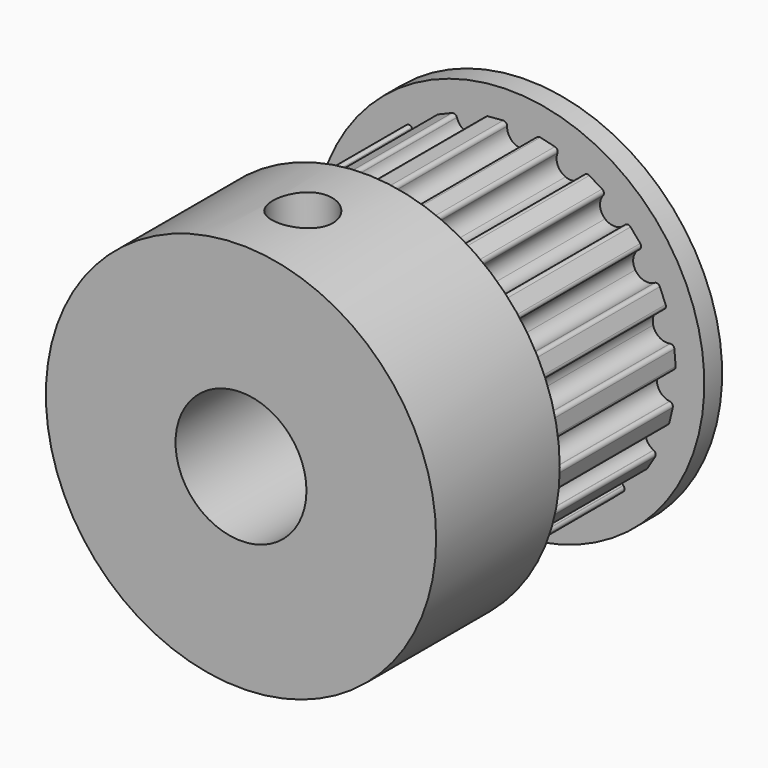
from build123d import *

# Parameters (mm, degrees)
F0_R     = 2.5
F1_DEPTH = 6.9
F0_R_2   = 7.45
F2_DEPTH = 5.9
F3_R     = 7.45
F3_R_2   = 2.5
F4_DEPTH = 0.85
F5_R     = 1.15
F6_DEPTH = 10


with BuildPart() as f1:
    # F0 (on Front) → F1 (new body)
    with BuildSketch(Plane.XZ):
        with BuildLine():
            ThreePointArc((1.0155111033, 6.1225507253), (0.8185107426, 5.7633627955), (0.427864291, 5.6399915636))
            ThreePointArc((0.427864291, 5.6399915636), (0.0602999603, 5.8208826189), (-0.080259854, 6.2056787333))
            Line((-0.080259854, 6.2056787333), (-0.0803901649, 6.2157543541))
            ThreePointArc((-0.0803901649, 6.2157543541), (-0.1261591328, 6.3174944065), (-0.2317565868, 6.353480715))
            Line((-0.2317565868, 6.353480715), (-0.8006133239, 6.3070949427))
            ThreePointArc((-0.8006133239, 6.3070949427), (-0.8989857606, 6.2544765013), (-0.9276675024, 6.1466655818))
            Line((-0.9276675024, 6.1466655818), (-0.9261637709, 6.1367019526))
            ThreePointArc((-0.9261637709, 6.1367019526), (-1.0025270731, 5.734217472), (-1.3359301193, 5.4961680656))
            ThreePointArc((-1.3359301193, 5.4961680656), (-1.7414029814, 5.5546220578), (-1.9939918474, 5.8771495385))
            Line((-1.9939918474, 5.8771495385), (-1.9972293185, 5.886691755))
            ThreePointArc((-1.9972293185, 5.886691755), (-2.0721975988, 5.9693089059), (-2.1837471264, 5.9709025113))
            Line((-2.1837471264, 5.9709025113), (-2.7104280412, 5.7510006212))
            ThreePointArc((-2.7104280412, 5.7510006212), (-2.7877257955, 5.6705587548), (-2.7816883467, 5.5591613317))
            Line((-2.7816883467, 5.5591613317), (-2.7771792822, 5.5501500358))
            ThreePointArc((-2.7771792822, 5.5501500358), (-2.7254305539, 5.1437669897), (-2.9689543815, 4.8143413433))
            ThreePointArc((-2.9689543815, 4.8143413433), (-3.3726452661, 4.7446363883), (-3.7125380257, 4.9733239984))
            Line((-3.7125380257, 4.9733239984), (-3.7185657508, 4.981398752))
            ThreePointArc((-3.7185657508, 4.981398752), (-3.815394926, 5.036805859), (-3.9219772822, 5.003850768))
            Line((-3.9219772822, 5.003850768), (-4.3549271771, 4.6319582892))
            ThreePointArc((-4.3549271771, 4.6319582892), (-4.4035838063, 4.5315672083), (-4.3634181544, 4.4274876374))
            Line((-4.3634181544, 4.4274876374), (-4.3563451357, 4.4203107633))
            ThreePointArc((-4.3563451357, 4.4203107633), (-4.1815499029, 4.0498087557), (-4.3113567029, 3.6612533468))
            ThreePointArc((-4.3113567029, 3.6612533468), (-4.6737495336, 3.4702126513), (-5.0676751154, 3.5826748541))
            Line((-5.0676751154, 3.5826748541), (-5.0759030587, 3.5884917316))
            ThreePointArc((-5.0759030587, 3.5884917316), (-5.1851148144, 3.6112651612), (-5.2762969757, 3.5469872478))
            Line((-5.2762969757, 3.5469872478), (-5.5731356984, 3.0595076072))
            ThreePointArc((-5.5731356984, 3.0595076072), (-5.5883883526, 2.9489942902), (-5.5180261914, 2.8624206051))
            Line((-5.5180261914, 2.8624206051), (-5.5090815748, 2.8577806752))
            ThreePointArc((-5.5090815748, 2.8577806752), (-5.2283500128, 2.559427024), (-5.2317333913, 2.1497763633))
            ThreePointArc((-5.2317333913, 2.1497763633), (-5.5173546328, 1.8561003216), (-5.9267528562, 1.8413285331))
            Line((-5.9267528562, 1.8413285331), (-5.9363756093, 1.8443181381))
            ThreePointArc((-5.9363756093, 1.8443181381), (-6.047279538, 1.8322286681), (-6.114135959, 1.7429199023))
            Line((-6.114135959, 1.7429199023), (-6.2458068672, 1.1875710037))
            ThreePointArc((-6.2458068672, 1.1875710037), (-6.2261625103, 1.0777532641), (-6.1324913784, 1.0171599004))
            Line((-6.1324913784, 1.0171599004), (-6.1225507253, 1.0155111033))
            ThreePointArc((-6.1225507253, 1.0155111033), (-5.7633627955, 0.8185107426), (-5.6399915636, 0.427864291))
            ThreePointArc((-5.6399915636, 0.427864291), (-5.8208826189, 0.0602999603), (-6.2056787333, -0.080259854))
            Line((-6.2056787333, -0.080259854), (-6.2157543541, -0.0803901649))
            ThreePointArc((-6.2157543541, -0.0803901649), (-6.3174944065, -0.1261591328), (-6.353480715, -0.2317565868))
            Line((-6.353480715, -0.2317565868), (-6.3070949427, -0.8006133239))
            ThreePointArc((-6.3070949427, -0.8006133239), (-6.2544765013, -0.8989857606), (-6.1466655818, -0.9276675024))
            Line((-6.1466655818, -0.9276675024), (-6.1367019526, -0.9261637709))
            ThreePointArc((-6.1367019526, -0.9261637709), (-5.734217472, -1.0025270731), (-5.4961680656, -1.3359301193))
            ThreePointArc((-5.4961680656, -1.3359301193), (-5.5546220578, -1.7414029814), (-5.8771495385, -1.9939918474))
            Line((-5.8771495385, -1.9939918474), (-5.886691755, -1.9972293185))
            ThreePointArc((-5.886691755, -1.9972293185), (-5.9693089059, -2.0721975988), (-5.9709025113, -2.1837471264))
            Line((-5.9709025113, -2.1837471264), (-5.7510006212, -2.7104280412))
            ThreePointArc((-5.7510006212, -2.7104280412), (-5.6705587548, -2.7877257955), (-5.5591613317, -2.7816883467))
            Line((-5.5591613317, -2.7816883467), (-5.5501500358, -2.7771792822))
            ThreePointArc((-5.5501500358, -2.7771792822), (-5.1437669897, -2.7254305539), (-4.8143413433, -2.9689543815))
            ThreePointArc((-4.8143413433, -2.9689543815), (-4.7446363883, -3.3726452661), (-4.9733239984, -3.7125380257))
            Line((-4.9733239984, -3.7125380257), (-4.981398752, -3.7185657508))
            ThreePointArc((-4.981398752, -3.7185657508), (-5.036805859, -3.815394926), (-5.003850768, -3.9219772822))
            Line((-5.003850768, -3.9219772822), (-4.6319582892, -4.3549271771))
            ThreePointArc((-4.6319582892, -4.3549271771), (-4.5315672083, -4.4035838063), (-4.4274876374, -4.3634181544))
            Line((-4.4274876374, -4.3634181544), (-4.4203107633, -4.3563451357))
            ThreePointArc((-4.4203107633, -4.3563451357), (-4.0498087557, -4.1815499029), (-3.6612533468, -4.3113567029))
            ThreePointArc((-3.6612533468, -4.3113567029), (-3.4702126513, -4.6737495336), (-3.5826748541, -5.0676751154))
            Line((-3.5826748541, -5.0676751154), (-3.5884917316, -5.0759030587))
            ThreePointArc((-3.5884917316, -5.0759030587), (-3.6112651612, -5.1851148144), (-3.5469872478, -5.2762969757))
            Line((-3.5469872478, -5.2762969757), (-3.0595076072, -5.5731356984))
            ThreePointArc((-3.0595076072, -5.5731356984), (-2.9489942902, -5.5883883526), (-2.8624206051, -5.5180261914))
            Line((-2.8624206051, -5.5180261914), (-2.8577806752, -5.5090815748))
            ThreePointArc((-2.8577806752, -5.5090815748), (-2.559427024, -5.2283500128), (-2.1497763633, -5.2317333913))
            ThreePointArc((-2.1497763633, -5.2317333913), (-1.8561003216, -5.5173546328), (-1.8413285331, -5.9267528562))
            Line((-1.8413285331, -5.9267528562), (-1.8443181381, -5.9363756093))
            ThreePointArc((-1.8443181381, -5.9363756093), (-1.8322286681, -6.047279538), (-1.7429199023, -6.114135959))
            Line((-1.7429199023, -6.114135959), (-1.1875710037, -6.2458068672))
            ThreePointArc((-1.1875710037, -6.2458068672), (-1.0777532641, -6.2261625103), (-1.0171599004, -6.1324913784))
            Line((-1.0171599004, -6.1324913784), (-1.0155111033, -6.1225507253))
            ThreePointArc((-1.0155111033, -6.1225507253), (-0.8185107426, -5.7633627955), (-0.427864291, -5.6399915636))
            ThreePointArc((-0.427864291, -5.6399915636), (-0.0602999603, -5.8208826189), (0.080259854, -6.2056787333))
            Line((0.080259854, -6.2056787333), (0.0803901649, -6.2157543541))
            ThreePointArc((0.0803901649, -6.2157543541), (0.1261591328, -6.3174944065), (0.2317565868, -6.353480715))
            Line((0.2317565868, -6.353480715), (0.8006133239, -6.3070949427))
            ThreePointArc((0.8006133239, -6.3070949427), (0.8989857606, -6.2544765013), (0.9276675024, -6.1466655818))
            Line((0.9276675024, -6.1466655818), (0.9261637709, -6.1367019526))
            ThreePointArc((0.9261637709, -6.1367019526), (1.0025270731, -5.734217472), (1.3359301193, -5.4961680656))
            ThreePointArc((1.3359301193, -5.4961680656), (1.7414029814, -5.5546220578), (1.9939918474, -5.8771495385))
            Line((1.9939918474, -5.8771495385), (1.9972293185, -5.886691755))
            ThreePointArc((1.9972293185, -5.886691755), (2.0721975988, -5.9693089059), (2.1837471264, -5.9709025113))
            Line((2.1837471264, -5.9709025113), (2.7104280412, -5.7510006212))
            ThreePointArc((2.7104280412, -5.7510006212), (2.7877257955, -5.6705587548), (2.7816883467, -5.5591613317))
            Line((2.7816883467, -5.5591613317), (2.7771792822, -5.5501500358))
            ThreePointArc((2.7771792822, -5.5501500358), (2.7254305539, -5.1437669897), (2.9689543815, -4.8143413433))
            ThreePointArc((2.9689543815, -4.8143413433), (3.3726452661, -4.7446363883), (3.7125380257, -4.9733239984))
            Line((3.7125380257, -4.9733239984), (3.7185657508, -4.981398752))
            ThreePointArc((3.7185657508, -4.981398752), (3.815394926, -5.036805859), (3.9219772822, -5.003850768))
            Line((3.9219772822, -5.003850768), (4.3549271771, -4.6319582892))
            ThreePointArc((4.3549271771, -4.6319582892), (4.4035838063, -4.5315672083), (4.3634181544, -4.4274876374))
            Line((4.3634181544, -4.4274876374), (4.3563451357, -4.4203107633))
            ThreePointArc((4.3563451357, -4.4203107633), (4.1815499029, -4.0498087557), (4.3113567029, -3.6612533468))
            ThreePointArc((4.3113567029, -3.6612533468), (4.6737495336, -3.4702126513), (5.0676751154, -3.5826748541))
            Line((5.0676751154, -3.5826748541), (5.0759030587, -3.5884917316))
            ThreePointArc((5.0759030587, -3.5884917316), (5.1851148144, -3.6112651612), (5.2762969757, -3.5469872478))
            Line((5.2762969757, -3.5469872478), (5.5731356984, -3.0595076072))
            ThreePointArc((5.5731356984, -3.0595076072), (5.5883883526, -2.9489942902), (5.5180261914, -2.8624206051))
            Line((5.5180261914, -2.8624206051), (5.5090815748, -2.8577806752))
            ThreePointArc((5.5090815748, -2.8577806752), (5.2283500128, -2.559427024), (5.2317333913, -2.1497763633))
            ThreePointArc((5.2317333913, -2.1497763633), (5.5173546328, -1.8561003216), (5.9267528562, -1.8413285331))
            Line((5.9267528562, -1.8413285331), (5.9363756093, -1.8443181381))
            ThreePointArc((5.9363756093, -1.8443181381), (6.047279538, -1.8322286681), (6.114135959, -1.7429199023))
            Line((6.114135959, -1.7429199023), (6.2458068672, -1.1875710037))
            ThreePointArc((6.2458068672, -1.1875710037), (6.2261625103, -1.0777532641), (6.1324913784, -1.0171599004))
            Line((6.1324913784, -1.0171599004), (6.1225507253, -1.0155111033))
            ThreePointArc((6.1225507253, -1.0155111033), (5.7633627955, -0.8185107426), (5.6399915636, -0.427864291))
            ThreePointArc((5.6399915636, -0.427864291), (5.8208826189, -0.0602999603), (6.2056787333, 0.080259854))
            Line((6.2056787333, 0.080259854), (6.2157543541, 0.0803901649))
            ThreePointArc((6.2157543541, 0.0803901649), (6.3174944065, 0.1261591328), (6.353480715, 0.2317565868))
            Line((6.353480715, 0.2317565868), (6.3070949427, 0.8006133239))
            ThreePointArc((6.3070949427, 0.8006133239), (6.2544765013, 0.8989857606), (6.1466655818, 0.9276675024))
            Line((6.1466655818, 0.9276675024), (6.1367019526, 0.9261637709))
            ThreePointArc((6.1367019526, 0.9261637709), (5.734217472, 1.0025270731), (5.4961680656, 1.3359301193))
            ThreePointArc((5.4961680656, 1.3359301193), (5.5546220578, 1.7414029814), (5.8771495385, 1.9939918474))
            Line((5.8771495385, 1.9939918474), (5.886691755, 1.9972293185))
            ThreePointArc((5.886691755, 1.9972293185), (5.9693089059, 2.0721975988), (5.9709025113, 2.1837471264))
            Line((5.9709025113, 2.1837471264), (5.7510006212, 2.7104280412))
            ThreePointArc((5.7510006212, 2.7104280412), (5.6705587548, 2.7877257955), (5.5591613317, 2.7816883467))
            Line((5.5591613317, 2.7816883467), (5.5501500358, 2.7771792822))
            ThreePointArc((5.5501500358, 2.7771792822), (5.1437669897, 2.7254305539), (4.8143413433, 2.9689543815))
            ThreePointArc((4.8143413433, 2.9689543815), (4.7446363883, 3.3726452661), (4.9733239984, 3.7125380257))
            Line((4.9733239984, 3.7125380257), (4.981398752, 3.7185657508))
            ThreePointArc((4.981398752, 3.7185657508), (5.036805859, 3.815394926), (5.003850768, 3.9219772822))
            Line((5.003850768, 3.9219772822), (4.6319582892, 4.3549271771))
            ThreePointArc((4.6319582892, 4.3549271771), (4.5315672083, 4.4035838063), (4.4274876374, 4.3634181544))
            Line((4.4274876374, 4.3634181544), (4.4203107633, 4.3563451357))
            ThreePointArc((4.4203107633, 4.3563451357), (4.0498087557, 4.1815499029), (3.6612533468, 4.3113567029))
            ThreePointArc((3.6612533468, 4.3113567029), (3.4702126513, 4.6737495336), (3.5826748541, 5.0676751154))
            Line((3.5826748541, 5.0676751154), (3.5884917316, 5.0759030587))
            ThreePointArc((3.5884917316, 5.0759030587), (3.6112651612, 5.1851148144), (3.5469872478, 5.2762969757))
            Line((3.5469872478, 5.2762969757), (3.0595076072, 5.5731356984))
            ThreePointArc((3.0595076072, 5.5731356984), (2.9489942902, 5.5883883526), (2.8624206051, 5.5180261914))
            Line((2.8624206051, 5.5180261914), (2.8577806752, 5.5090815748))
            ThreePointArc((2.8577806752, 5.5090815748), (2.559427024, 5.2283500128), (2.1497763633, 5.2317333913))
            ThreePointArc((2.1497763633, 5.2317333913), (1.8561003216, 5.5173546328), (1.8413285331, 5.9267528562))
            Line((1.8413285331, 5.9267528562), (1.8443181381, 5.9363756093))
            ThreePointArc((1.8443181381, 5.9363756093), (1.8322286681, 6.047279538), (1.7429199023, 6.114135959))
            Line((1.7429199023, 6.114135959), (1.1875710037, 6.2458068672))
            ThreePointArc((1.1875710037, 6.2458068672), (1.0777532641, 6.2261625103), (1.0171599004, 6.1324913784))
            Line((1.0171599004, 6.1324913784), (1.0155111033, 6.1225507253))
        make_face()
        Circle(F0_R, mode=Mode.SUBTRACT)
    extrude(amount=-F1_DEPTH)

    # F0 (on Front) → F2 (join)
    with BuildSketch(Plane.XZ):
        Circle(F0_R_2)
        with BuildLine():
            ThreePointArc((-0.080259854, 6.2056787333), (0.0602999603, 5.8208826189), (0.427864291, 5.6399915636))
            ThreePointArc((0.427864291, 5.6399915636), (0.8185107426, 5.7633627955), (1.0155111033, 6.1225507253))
            Line((1.0155111033, 6.1225507253), (1.0171599004, 6.1324913784))
            ThreePointArc((1.0171599004, 6.1324913784), (1.0777532641, 6.2261625103), (1.1875710037, 6.2458068672))
            Line((1.1875710037, 6.2458068672), (1.7429199023, 6.114135959))
            ThreePointArc((1.7429199023, 6.114135959), (1.8322286681, 6.047279538), (1.8443181381, 5.9363756093))
            Line((1.8443181381, 5.9363756093), (1.8413285331, 5.9267528562))
            ThreePointArc((1.8413285331, 5.9267528562), (1.8561003216, 5.5173546328), (2.1497763633, 5.2317333913))
            ThreePointArc((2.1497763633, 5.2317333913), (2.559427024, 5.2283500128), (2.8577806752, 5.5090815748))
            Line((2.8577806752, 5.5090815748), (2.8624206051, 5.5180261914))
            ThreePointArc((2.8624206051, 5.5180261914), (2.9489942902, 5.5883883526), (3.0595076072, 5.5731356984))
            Line((3.0595076072, 5.5731356984), (3.5469872478, 5.2762969757))
            ThreePointArc((3.5469872478, 5.2762969757), (3.6112651612, 5.1851148144), (3.5884917316, 5.0759030587))
            Line((3.5884917316, 5.0759030587), (3.5826748541, 5.0676751154))
            ThreePointArc((3.5826748541, 5.0676751154), (3.4702126513, 4.6737495336), (3.6612533468, 4.3113567029))
            ThreePointArc((3.6612533468, 4.3113567029), (4.0498087557, 4.1815499029), (4.4203107633, 4.3563451357))
            Line((4.4203107633, 4.3563451357), (4.4274876374, 4.3634181544))
            ThreePointArc((4.4274876374, 4.3634181544), (4.5315672083, 4.4035838063), (4.6319582892, 4.3549271771))
            Line((4.6319582892, 4.3549271771), (5.003850768, 3.9219772822))
            ThreePointArc((5.003850768, 3.9219772822), (5.036805859, 3.815394926), (4.981398752, 3.7185657508))
            Line((4.981398752, 3.7185657508), (4.9733239984, 3.7125380257))
            ThreePointArc((4.9733239984, 3.7125380257), (4.7446363883, 3.3726452661), (4.8143413433, 2.9689543815))
            ThreePointArc((4.8143413433, 2.9689543815), (5.1437669897, 2.7254305539), (5.5501500358, 2.7771792822))
            Line((5.5501500358, 2.7771792822), (5.5591613317, 2.7816883467))
            ThreePointArc((5.5591613317, 2.7816883467), (5.6705587548, 2.7877257955), (5.7510006212, 2.7104280412))
            Line((5.7510006212, 2.7104280412), (5.9709025113, 2.1837471264))
            ThreePointArc((5.9709025113, 2.1837471264), (5.9693089059, 2.0721975988), (5.886691755, 1.9972293185))
            Line((5.886691755, 1.9972293185), (5.8771495385, 1.9939918474))
            ThreePointArc((5.8771495385, 1.9939918474), (5.5546220578, 1.7414029814), (5.4961680656, 1.3359301193))
            ThreePointArc((5.4961680656, 1.3359301193), (5.734217472, 1.0025270731), (6.1367019526, 0.9261637709))
            Line((6.1367019526, 0.9261637709), (6.1466655818, 0.9276675024))
            ThreePointArc((6.1466655818, 0.9276675024), (6.2544765013, 0.8989857606), (6.3070949427, 0.8006133239))
            Line((6.3070949427, 0.8006133239), (6.353480715, 0.2317565868))
            ThreePointArc((6.353480715, 0.2317565868), (6.3174944065, 0.1261591328), (6.2157543541, 0.0803901649))
            Line((6.2157543541, 0.0803901649), (6.2056787333, 0.080259854))
            ThreePointArc((6.2056787333, 0.080259854), (5.8208826189, -0.0602999603), (5.6399915636, -0.427864291))
            ThreePointArc((5.6399915636, -0.427864291), (5.7633627955, -0.8185107426), (6.1225507253, -1.0155111033))
            Line((6.1225507253, -1.0155111033), (6.1324913784, -1.0171599004))
            ThreePointArc((6.1324913784, -1.0171599004), (6.2261625103, -1.0777532641), (6.2458068672, -1.1875710037))
            Line((6.2458068672, -1.1875710037), (6.114135959, -1.7429199023))
            ThreePointArc((6.114135959, -1.7429199023), (6.047279538, -1.8322286681), (5.9363756093, -1.8443181381))
            Line((5.9363756093, -1.8443181381), (5.9267528562, -1.8413285331))
            ThreePointArc((5.9267528562, -1.8413285331), (5.5173546328, -1.8561003216), (5.2317333913, -2.1497763633))
            ThreePointArc((5.2317333913, -2.1497763633), (5.2283500128, -2.559427024), (5.5090815748, -2.8577806752))
            Line((5.5090815748, -2.8577806752), (5.5180261914, -2.8624206051))
            ThreePointArc((5.5180261914, -2.8624206051), (5.5883883526, -2.9489942902), (5.5731356984, -3.0595076072))
            Line((5.5731356984, -3.0595076072), (5.2762969757, -3.5469872478))
            ThreePointArc((5.2762969757, -3.5469872478), (5.1851148144, -3.6112651612), (5.0759030587, -3.5884917316))
            Line((5.0759030587, -3.5884917316), (5.0676751154, -3.5826748541))
            ThreePointArc((5.0676751154, -3.5826748541), (4.6737495336, -3.4702126513), (4.3113567029, -3.6612533468))
            ThreePointArc((4.3113567029, -3.6612533468), (4.1815499029, -4.0498087557), (4.3563451357, -4.4203107633))
            Line((4.3563451357, -4.4203107633), (4.3634181544, -4.4274876374))
            ThreePointArc((4.3634181544, -4.4274876374), (4.4035838063, -4.5315672083), (4.3549271771, -4.6319582892))
            Line((4.3549271771, -4.6319582892), (3.9219772822, -5.003850768))
            ThreePointArc((3.9219772822, -5.003850768), (3.815394926, -5.036805859), (3.7185657508, -4.981398752))
            Line((3.7185657508, -4.981398752), (3.7125380257, -4.9733239984))
            ThreePointArc((3.7125380257, -4.9733239984), (3.3726452661, -4.7446363883), (2.9689543815, -4.8143413433))
            ThreePointArc((2.9689543815, -4.8143413433), (2.7254305539, -5.1437669897), (2.7771792822, -5.5501500358))
            Line((2.7771792822, -5.5501500358), (2.7816883467, -5.5591613317))
            ThreePointArc((2.7816883467, -5.5591613317), (2.7877257955, -5.6705587548), (2.7104280412, -5.7510006212))
            Line((2.7104280412, -5.7510006212), (2.1837471264, -5.9709025113))
            ThreePointArc((2.1837471264, -5.9709025113), (2.0721975988, -5.9693089059), (1.9972293185, -5.886691755))
            Line((1.9972293185, -5.886691755), (1.9939918474, -5.8771495385))
            ThreePointArc((1.9939918474, -5.8771495385), (1.7414029814, -5.5546220578), (1.3359301193, -5.4961680656))
            ThreePointArc((1.3359301193, -5.4961680656), (1.0025270731, -5.734217472), (0.9261637709, -6.1367019526))
            Line((0.9261637709, -6.1367019526), (0.9276675024, -6.1466655818))
            ThreePointArc((0.9276675024, -6.1466655818), (0.8989857606, -6.2544765013), (0.8006133239, -6.3070949427))
            Line((0.8006133239, -6.3070949427), (0.2317565868, -6.353480715))
            ThreePointArc((0.2317565868, -6.353480715), (0.1261591328, -6.3174944065), (0.0803901649, -6.2157543541))
            Line((0.0803901649, -6.2157543541), (0.080259854, -6.2056787333))
            ThreePointArc((0.080259854, -6.2056787333), (-0.0602999603, -5.8208826189), (-0.427864291, -5.6399915636))
            ThreePointArc((-0.427864291, -5.6399915636), (-0.8185107426, -5.7633627955), (-1.0155111033, -6.1225507253))
            Line((-1.0155111033, -6.1225507253), (-1.0171599004, -6.1324913784))
            ThreePointArc((-1.0171599004, -6.1324913784), (-1.0777532641, -6.2261625103), (-1.1875710037, -6.2458068672))
            Line((-1.1875710037, -6.2458068672), (-1.7429199023, -6.114135959))
            ThreePointArc((-1.7429199023, -6.114135959), (-1.8322286681, -6.047279538), (-1.8443181381, -5.9363756093))
            Line((-1.8443181381, -5.9363756093), (-1.8413285331, -5.9267528562))
            ThreePointArc((-1.8413285331, -5.9267528562), (-1.8561003216, -5.5173546328), (-2.1497763633, -5.2317333913))
            ThreePointArc((-2.1497763633, -5.2317333913), (-2.559427024, -5.2283500128), (-2.8577806752, -5.5090815748))
            Line((-2.8577806752, -5.5090815748), (-2.8624206051, -5.5180261914))
            ThreePointArc((-2.8624206051, -5.5180261914), (-2.9489942902, -5.5883883526), (-3.0595076072, -5.5731356984))
            Line((-3.0595076072, -5.5731356984), (-3.5469872478, -5.2762969757))
            ThreePointArc((-3.5469872478, -5.2762969757), (-3.6112651612, -5.1851148144), (-3.5884917316, -5.0759030587))
            Line((-3.5884917316, -5.0759030587), (-3.5826748541, -5.0676751154))
            ThreePointArc((-3.5826748541, -5.0676751154), (-3.4702126513, -4.6737495336), (-3.6612533468, -4.3113567029))
            ThreePointArc((-3.6612533468, -4.3113567029), (-4.0498087557, -4.1815499029), (-4.4203107633, -4.3563451357))
            Line((-4.4203107633, -4.3563451357), (-4.4274876374, -4.3634181544))
            ThreePointArc((-4.4274876374, -4.3634181544), (-4.5315672083, -4.4035838063), (-4.6319582892, -4.3549271771))
            Line((-4.6319582892, -4.3549271771), (-5.003850768, -3.9219772822))
            ThreePointArc((-5.003850768, -3.9219772822), (-5.036805859, -3.815394926), (-4.981398752, -3.7185657508))
            Line((-4.981398752, -3.7185657508), (-4.9733239984, -3.7125380257))
            ThreePointArc((-4.9733239984, -3.7125380257), (-4.7446363883, -3.3726452661), (-4.8143413433, -2.9689543815))
            ThreePointArc((-4.8143413433, -2.9689543815), (-5.1437669897, -2.7254305539), (-5.5501500358, -2.7771792822))
            Line((-5.5501500358, -2.7771792822), (-5.5591613317, -2.7816883467))
            ThreePointArc((-5.5591613317, -2.7816883467), (-5.6705587548, -2.7877257955), (-5.7510006212, -2.7104280412))
            Line((-5.7510006212, -2.7104280412), (-5.9709025113, -2.1837471264))
            ThreePointArc((-5.9709025113, -2.1837471264), (-5.9693089059, -2.0721975988), (-5.886691755, -1.9972293185))
            Line((-5.886691755, -1.9972293185), (-5.8771495385, -1.9939918474))
            ThreePointArc((-5.8771495385, -1.9939918474), (-5.5546220578, -1.7414029814), (-5.4961680656, -1.3359301193))
            ThreePointArc((-5.4961680656, -1.3359301193), (-5.734217472, -1.0025270731), (-6.1367019526, -0.9261637709))
            Line((-6.1367019526, -0.9261637709), (-6.1466655818, -0.9276675024))
            ThreePointArc((-6.1466655818, -0.9276675024), (-6.2544765013, -0.8989857606), (-6.3070949427, -0.8006133239))
            Line((-6.3070949427, -0.8006133239), (-6.353480715, -0.2317565868))
            ThreePointArc((-6.353480715, -0.2317565868), (-6.3174944065, -0.1261591328), (-6.2157543541, -0.0803901649))
            Line((-6.2157543541, -0.0803901649), (-6.2056787333, -0.080259854))
            ThreePointArc((-6.2056787333, -0.080259854), (-5.8208826189, 0.0602999603), (-5.6399915636, 0.427864291))
            ThreePointArc((-5.6399915636, 0.427864291), (-5.7633627955, 0.8185107426), (-6.1225507253, 1.0155111033))
            Line((-6.1225507253, 1.0155111033), (-6.1324913784, 1.0171599004))
            ThreePointArc((-6.1324913784, 1.0171599004), (-6.2261625103, 1.0777532641), (-6.2458068672, 1.1875710037))
            Line((-6.2458068672, 1.1875710037), (-6.114135959, 1.7429199023))
            ThreePointArc((-6.114135959, 1.7429199023), (-6.047279538, 1.8322286681), (-5.9363756093, 1.8443181381))
            Line((-5.9363756093, 1.8443181381), (-5.9267528562, 1.8413285331))
            ThreePointArc((-5.9267528562, 1.8413285331), (-5.5173546328, 1.8561003216), (-5.2317333913, 2.1497763633))
            ThreePointArc((-5.2317333913, 2.1497763633), (-5.2283500128, 2.559427024), (-5.5090815748, 2.8577806752))
            Line((-5.5090815748, 2.8577806752), (-5.5180261914, 2.8624206051))
            ThreePointArc((-5.5180261914, 2.8624206051), (-5.5883883526, 2.9489942902), (-5.5731356984, 3.0595076072))
            Line((-5.5731356984, 3.0595076072), (-5.2762969757, 3.5469872478))
            ThreePointArc((-5.2762969757, 3.5469872478), (-5.1851148144, 3.6112651612), (-5.0759030587, 3.5884917316))
            Line((-5.0759030587, 3.5884917316), (-5.0676751154, 3.5826748541))
            ThreePointArc((-5.0676751154, 3.5826748541), (-4.6737495336, 3.4702126513), (-4.3113567029, 3.6612533468))
            ThreePointArc((-4.3113567029, 3.6612533468), (-4.1815499029, 4.0498087557), (-4.3563451357, 4.4203107633))
            Line((-4.3563451357, 4.4203107633), (-4.3634181544, 4.4274876374))
            ThreePointArc((-4.3634181544, 4.4274876374), (-4.4035838063, 4.5315672083), (-4.3549271771, 4.6319582892))
            Line((-4.3549271771, 4.6319582892), (-3.9219772822, 5.003850768))
            ThreePointArc((-3.9219772822, 5.003850768), (-3.815394926, 5.036805859), (-3.7185657508, 4.981398752))
            Line((-3.7185657508, 4.981398752), (-3.7125380257, 4.9733239984))
            ThreePointArc((-3.7125380257, 4.9733239984), (-3.3726452661, 4.7446363883), (-2.9689543815, 4.8143413433))
            ThreePointArc((-2.9689543815, 4.8143413433), (-2.7254305539, 5.1437669897), (-2.7771792822, 5.5501500358))
            Line((-2.7771792822, 5.5501500358), (-2.7816883467, 5.5591613317))
            ThreePointArc((-2.7816883467, 5.5591613317), (-2.7877257955, 5.6705587548), (-2.7104280412, 5.7510006212))
            Line((-2.7104280412, 5.7510006212), (-2.1837471264, 5.9709025113))
            ThreePointArc((-2.1837471264, 5.9709025113), (-2.0721975988, 5.9693089059), (-1.9972293185, 5.886691755))
            Line((-1.9972293185, 5.886691755), (-1.9939918474, 5.8771495385))
            ThreePointArc((-1.9939918474, 5.8771495385), (-1.7414029814, 5.5546220578), (-1.3359301193, 5.4961680656))
            ThreePointArc((-1.3359301193, 5.4961680656), (-1.0025270731, 5.734217472), (-0.9261637709, 6.1367019526))
            Line((-0.9261637709, 6.1367019526), (-0.9276675024, 6.1466655818))
            ThreePointArc((-0.9276675024, 6.1466655818), (-0.8989857606, 6.2544765013), (-0.8006133239, 6.3070949427))
            Line((-0.8006133239, 6.3070949427), (-0.2317565868, 6.353480715))
            ThreePointArc((-0.2317565868, 6.353480715), (-0.1261591328, 6.3174944065), (-0.0803901649, 6.2157543541))
            Line((-0.0803901649, 6.2157543541), (-0.080259854, 6.2056787333))
        make_face(mode=Mode.SUBTRACT)
        with BuildLine():
            ThreePointArc((1.0155111033, 6.1225507253), (0.8185107426, 5.7633627955), (0.427864291, 5.6399915636))
            ThreePointArc((0.427864291, 5.6399915636), (0.0602999603, 5.8208826189), (-0.080259854, 6.2056787333))
            Line((-0.080259854, 6.2056787333), (-0.0803901649, 6.2157543541))
            ThreePointArc((-0.0803901649, 6.2157543541), (-0.1261591328, 6.3174944065), (-0.2317565868, 6.353480715))
            Line((-0.2317565868, 6.353480715), (-0.8006133239, 6.3070949427))
            ThreePointArc((-0.8006133239, 6.3070949427), (-0.8989857606, 6.2544765013), (-0.9276675024, 6.1466655818))
            Line((-0.9276675024, 6.1466655818), (-0.9261637709, 6.1367019526))
            ThreePointArc((-0.9261637709, 6.1367019526), (-1.0025270731, 5.734217472), (-1.3359301193, 5.4961680656))
            ThreePointArc((-1.3359301193, 5.4961680656), (-1.7414029814, 5.5546220578), (-1.9939918474, 5.8771495385))
            Line((-1.9939918474, 5.8771495385), (-1.9972293185, 5.886691755))
            ThreePointArc((-1.9972293185, 5.886691755), (-2.0721975988, 5.9693089059), (-2.1837471264, 5.9709025113))
            Line((-2.1837471264, 5.9709025113), (-2.7104280412, 5.7510006212))
            ThreePointArc((-2.7104280412, 5.7510006212), (-2.7877257955, 5.6705587548), (-2.7816883467, 5.5591613317))
            Line((-2.7816883467, 5.5591613317), (-2.7771792822, 5.5501500358))
            ThreePointArc((-2.7771792822, 5.5501500358), (-2.7254305539, 5.1437669897), (-2.9689543815, 4.8143413433))
            ThreePointArc((-2.9689543815, 4.8143413433), (-3.3726452661, 4.7446363883), (-3.7125380257, 4.9733239984))
            Line((-3.7125380257, 4.9733239984), (-3.7185657508, 4.981398752))
            ThreePointArc((-3.7185657508, 4.981398752), (-3.815394926, 5.036805859), (-3.9219772822, 5.003850768))
            Line((-3.9219772822, 5.003850768), (-4.3549271771, 4.6319582892))
            ThreePointArc((-4.3549271771, 4.6319582892), (-4.4035838063, 4.5315672083), (-4.3634181544, 4.4274876374))
            Line((-4.3634181544, 4.4274876374), (-4.3563451357, 4.4203107633))
            ThreePointArc((-4.3563451357, 4.4203107633), (-4.1815499029, 4.0498087557), (-4.3113567029, 3.6612533468))
            ThreePointArc((-4.3113567029, 3.6612533468), (-4.6737495336, 3.4702126513), (-5.0676751154, 3.5826748541))
            Line((-5.0676751154, 3.5826748541), (-5.0759030587, 3.5884917316))
            ThreePointArc((-5.0759030587, 3.5884917316), (-5.1851148144, 3.6112651612), (-5.2762969757, 3.5469872478))
            Line((-5.2762969757, 3.5469872478), (-5.5731356984, 3.0595076072))
            ThreePointArc((-5.5731356984, 3.0595076072), (-5.5883883526, 2.9489942902), (-5.5180261914, 2.8624206051))
            Line((-5.5180261914, 2.8624206051), (-5.5090815748, 2.8577806752))
            ThreePointArc((-5.5090815748, 2.8577806752), (-5.2283500128, 2.559427024), (-5.2317333913, 2.1497763633))
            ThreePointArc((-5.2317333913, 2.1497763633), (-5.5173546328, 1.8561003216), (-5.9267528562, 1.8413285331))
            Line((-5.9267528562, 1.8413285331), (-5.9363756093, 1.8443181381))
            ThreePointArc((-5.9363756093, 1.8443181381), (-6.047279538, 1.8322286681), (-6.114135959, 1.7429199023))
            Line((-6.114135959, 1.7429199023), (-6.2458068672, 1.1875710037))
            ThreePointArc((-6.2458068672, 1.1875710037), (-6.2261625103, 1.0777532641), (-6.1324913784, 1.0171599004))
            Line((-6.1324913784, 1.0171599004), (-6.1225507253, 1.0155111033))
            ThreePointArc((-6.1225507253, 1.0155111033), (-5.7633627955, 0.8185107426), (-5.6399915636, 0.427864291))
            ThreePointArc((-5.6399915636, 0.427864291), (-5.8208826189, 0.0602999603), (-6.2056787333, -0.080259854))
            Line((-6.2056787333, -0.080259854), (-6.2157543541, -0.0803901649))
            ThreePointArc((-6.2157543541, -0.0803901649), (-6.3174944065, -0.1261591328), (-6.353480715, -0.2317565868))
            Line((-6.353480715, -0.2317565868), (-6.3070949427, -0.8006133239))
            ThreePointArc((-6.3070949427, -0.8006133239), (-6.2544765013, -0.8989857606), (-6.1466655818, -0.9276675024))
            Line((-6.1466655818, -0.9276675024), (-6.1367019526, -0.9261637709))
            ThreePointArc((-6.1367019526, -0.9261637709), (-5.734217472, -1.0025270731), (-5.4961680656, -1.3359301193))
            ThreePointArc((-5.4961680656, -1.3359301193), (-5.5546220578, -1.7414029814), (-5.8771495385, -1.9939918474))
            Line((-5.8771495385, -1.9939918474), (-5.886691755, -1.9972293185))
            ThreePointArc((-5.886691755, -1.9972293185), (-5.9693089059, -2.0721975988), (-5.9709025113, -2.1837471264))
            Line((-5.9709025113, -2.1837471264), (-5.7510006212, -2.7104280412))
            ThreePointArc((-5.7510006212, -2.7104280412), (-5.6705587548, -2.7877257955), (-5.5591613317, -2.7816883467))
            Line((-5.5591613317, -2.7816883467), (-5.5501500358, -2.7771792822))
            ThreePointArc((-5.5501500358, -2.7771792822), (-5.1437669897, -2.7254305539), (-4.8143413433, -2.9689543815))
            ThreePointArc((-4.8143413433, -2.9689543815), (-4.7446363883, -3.3726452661), (-4.9733239984, -3.7125380257))
            Line((-4.9733239984, -3.7125380257), (-4.981398752, -3.7185657508))
            ThreePointArc((-4.981398752, -3.7185657508), (-5.036805859, -3.815394926), (-5.003850768, -3.9219772822))
            Line((-5.003850768, -3.9219772822), (-4.6319582892, -4.3549271771))
            ThreePointArc((-4.6319582892, -4.3549271771), (-4.5315672083, -4.4035838063), (-4.4274876374, -4.3634181544))
            Line((-4.4274876374, -4.3634181544), (-4.4203107633, -4.3563451357))
            ThreePointArc((-4.4203107633, -4.3563451357), (-4.0498087557, -4.1815499029), (-3.6612533468, -4.3113567029))
            ThreePointArc((-3.6612533468, -4.3113567029), (-3.4702126513, -4.6737495336), (-3.5826748541, -5.0676751154))
            Line((-3.5826748541, -5.0676751154), (-3.5884917316, -5.0759030587))
            ThreePointArc((-3.5884917316, -5.0759030587), (-3.6112651612, -5.1851148144), (-3.5469872478, -5.2762969757))
            Line((-3.5469872478, -5.2762969757), (-3.0595076072, -5.5731356984))
            ThreePointArc((-3.0595076072, -5.5731356984), (-2.9489942902, -5.5883883526), (-2.8624206051, -5.5180261914))
            Line((-2.8624206051, -5.5180261914), (-2.8577806752, -5.5090815748))
            ThreePointArc((-2.8577806752, -5.5090815748), (-2.559427024, -5.2283500128), (-2.1497763633, -5.2317333913))
            ThreePointArc((-2.1497763633, -5.2317333913), (-1.8561003216, -5.5173546328), (-1.8413285331, -5.9267528562))
            Line((-1.8413285331, -5.9267528562), (-1.8443181381, -5.9363756093))
            ThreePointArc((-1.8443181381, -5.9363756093), (-1.8322286681, -6.047279538), (-1.7429199023, -6.114135959))
            Line((-1.7429199023, -6.114135959), (-1.1875710037, -6.2458068672))
            ThreePointArc((-1.1875710037, -6.2458068672), (-1.0777532641, -6.2261625103), (-1.0171599004, -6.1324913784))
            Line((-1.0171599004, -6.1324913784), (-1.0155111033, -6.1225507253))
            ThreePointArc((-1.0155111033, -6.1225507253), (-0.8185107426, -5.7633627955), (-0.427864291, -5.6399915636))
            ThreePointArc((-0.427864291, -5.6399915636), (-0.0602999603, -5.8208826189), (0.080259854, -6.2056787333))
            Line((0.080259854, -6.2056787333), (0.0803901649, -6.2157543541))
            ThreePointArc((0.0803901649, -6.2157543541), (0.1261591328, -6.3174944065), (0.2317565868, -6.353480715))
            Line((0.2317565868, -6.353480715), (0.8006133239, -6.3070949427))
            ThreePointArc((0.8006133239, -6.3070949427), (0.8989857606, -6.2544765013), (0.9276675024, -6.1466655818))
            Line((0.9276675024, -6.1466655818), (0.9261637709, -6.1367019526))
            ThreePointArc((0.9261637709, -6.1367019526), (1.0025270731, -5.734217472), (1.3359301193, -5.4961680656))
            ThreePointArc((1.3359301193, -5.4961680656), (1.7414029814, -5.5546220578), (1.9939918474, -5.8771495385))
            Line((1.9939918474, -5.8771495385), (1.9972293185, -5.886691755))
            ThreePointArc((1.9972293185, -5.886691755), (2.0721975988, -5.9693089059), (2.1837471264, -5.9709025113))
            Line((2.1837471264, -5.9709025113), (2.7104280412, -5.7510006212))
            ThreePointArc((2.7104280412, -5.7510006212), (2.7877257955, -5.6705587548), (2.7816883467, -5.5591613317))
            Line((2.7816883467, -5.5591613317), (2.7771792822, -5.5501500358))
            ThreePointArc((2.7771792822, -5.5501500358), (2.7254305539, -5.1437669897), (2.9689543815, -4.8143413433))
            ThreePointArc((2.9689543815, -4.8143413433), (3.3726452661, -4.7446363883), (3.7125380257, -4.9733239984))
            Line((3.7125380257, -4.9733239984), (3.7185657508, -4.981398752))
            ThreePointArc((3.7185657508, -4.981398752), (3.815394926, -5.036805859), (3.9219772822, -5.003850768))
            Line((3.9219772822, -5.003850768), (4.3549271771, -4.6319582892))
            ThreePointArc((4.3549271771, -4.6319582892), (4.4035838063, -4.5315672083), (4.3634181544, -4.4274876374))
            Line((4.3634181544, -4.4274876374), (4.3563451357, -4.4203107633))
            ThreePointArc((4.3563451357, -4.4203107633), (4.1815499029, -4.0498087557), (4.3113567029, -3.6612533468))
            ThreePointArc((4.3113567029, -3.6612533468), (4.6737495336, -3.4702126513), (5.0676751154, -3.5826748541))
            Line((5.0676751154, -3.5826748541), (5.0759030587, -3.5884917316))
            ThreePointArc((5.0759030587, -3.5884917316), (5.1851148144, -3.6112651612), (5.2762969757, -3.5469872478))
            Line((5.2762969757, -3.5469872478), (5.5731356984, -3.0595076072))
            ThreePointArc((5.5731356984, -3.0595076072), (5.5883883526, -2.9489942902), (5.5180261914, -2.8624206051))
            Line((5.5180261914, -2.8624206051), (5.5090815748, -2.8577806752))
            ThreePointArc((5.5090815748, -2.8577806752), (5.2283500128, -2.559427024), (5.2317333913, -2.1497763633))
            ThreePointArc((5.2317333913, -2.1497763633), (5.5173546328, -1.8561003216), (5.9267528562, -1.8413285331))
            Line((5.9267528562, -1.8413285331), (5.9363756093, -1.8443181381))
            ThreePointArc((5.9363756093, -1.8443181381), (6.047279538, -1.8322286681), (6.114135959, -1.7429199023))
            Line((6.114135959, -1.7429199023), (6.2458068672, -1.1875710037))
            ThreePointArc((6.2458068672, -1.1875710037), (6.2261625103, -1.0777532641), (6.1324913784, -1.0171599004))
            Line((6.1324913784, -1.0171599004), (6.1225507253, -1.0155111033))
            ThreePointArc((6.1225507253, -1.0155111033), (5.7633627955, -0.8185107426), (5.6399915636, -0.427864291))
            ThreePointArc((5.6399915636, -0.427864291), (5.8208826189, -0.0602999603), (6.2056787333, 0.080259854))
            Line((6.2056787333, 0.080259854), (6.2157543541, 0.0803901649))
            ThreePointArc((6.2157543541, 0.0803901649), (6.3174944065, 0.1261591328), (6.353480715, 0.2317565868))
            Line((6.353480715, 0.2317565868), (6.3070949427, 0.8006133239))
            ThreePointArc((6.3070949427, 0.8006133239), (6.2544765013, 0.8989857606), (6.1466655818, 0.9276675024))
            Line((6.1466655818, 0.9276675024), (6.1367019526, 0.9261637709))
            ThreePointArc((6.1367019526, 0.9261637709), (5.734217472, 1.0025270731), (5.4961680656, 1.3359301193))
            ThreePointArc((5.4961680656, 1.3359301193), (5.5546220578, 1.7414029814), (5.8771495385, 1.9939918474))
            Line((5.8771495385, 1.9939918474), (5.886691755, 1.9972293185))
            ThreePointArc((5.886691755, 1.9972293185), (5.9693089059, 2.0721975988), (5.9709025113, 2.1837471264))
            Line((5.9709025113, 2.1837471264), (5.7510006212, 2.7104280412))
            ThreePointArc((5.7510006212, 2.7104280412), (5.6705587548, 2.7877257955), (5.5591613317, 2.7816883467))
            Line((5.5591613317, 2.7816883467), (5.5501500358, 2.7771792822))
            ThreePointArc((5.5501500358, 2.7771792822), (5.1437669897, 2.7254305539), (4.8143413433, 2.9689543815))
            ThreePointArc((4.8143413433, 2.9689543815), (4.7446363883, 3.3726452661), (4.9733239984, 3.7125380257))
            Line((4.9733239984, 3.7125380257), (4.981398752, 3.7185657508))
            ThreePointArc((4.981398752, 3.7185657508), (5.036805859, 3.815394926), (5.003850768, 3.9219772822))
            Line((5.003850768, 3.9219772822), (4.6319582892, 4.3549271771))
            ThreePointArc((4.6319582892, 4.3549271771), (4.5315672083, 4.4035838063), (4.4274876374, 4.3634181544))
            Line((4.4274876374, 4.3634181544), (4.4203107633, 4.3563451357))
            ThreePointArc((4.4203107633, 4.3563451357), (4.0498087557, 4.1815499029), (3.6612533468, 4.3113567029))
            ThreePointArc((3.6612533468, 4.3113567029), (3.4702126513, 4.6737495336), (3.5826748541, 5.0676751154))
            Line((3.5826748541, 5.0676751154), (3.5884917316, 5.0759030587))
            ThreePointArc((3.5884917316, 5.0759030587), (3.6112651612, 5.1851148144), (3.5469872478, 5.2762969757))
            Line((3.5469872478, 5.2762969757), (3.0595076072, 5.5731356984))
            ThreePointArc((3.0595076072, 5.5731356984), (2.9489942902, 5.5883883526), (2.8624206051, 5.5180261914))
            Line((2.8624206051, 5.5180261914), (2.8577806752, 5.5090815748))
            ThreePointArc((2.8577806752, 5.5090815748), (2.559427024, 5.2283500128), (2.1497763633, 5.2317333913))
            ThreePointArc((2.1497763633, 5.2317333913), (1.8561003216, 5.5173546328), (1.8413285331, 5.9267528562))
            Line((1.8413285331, 5.9267528562), (1.8443181381, 5.9363756093))
            ThreePointArc((1.8443181381, 5.9363756093), (1.8322286681, 6.047279538), (1.7429199023, 6.114135959))
            Line((1.7429199023, 6.114135959), (1.1875710037, 6.2458068672))
            ThreePointArc((1.1875710037, 6.2458068672), (1.0777532641, 6.2261625103), (1.0171599004, 6.1324913784))
            Line((1.0171599004, 6.1324913784), (1.0155111033, 6.1225507253))
        make_face()
        Circle(F0_R, mode=Mode.SUBTRACT)
    extrude(amount=F2_DEPTH)

    # F3 (on face) → F4 (join)
    with BuildSketch(Plane(origin=(0, 6.9, 0), x_dir=(-1, 0, 0), z_dir=(0, 1, 0))):
        Circle(F3_R)
        Circle(F3_R_2, mode=Mode.SUBTRACT)
    extrude(amount=F4_DEPTH)

    # F5 (on Top) → F6 (cut)
    with BuildSketch(Plane.XY):
        with Locations((0, -2.95)):
            Circle(F5_R)
    extrude(amount=F6_DEPTH, mode=Mode.SUBTRACT)


solid = f1.part
